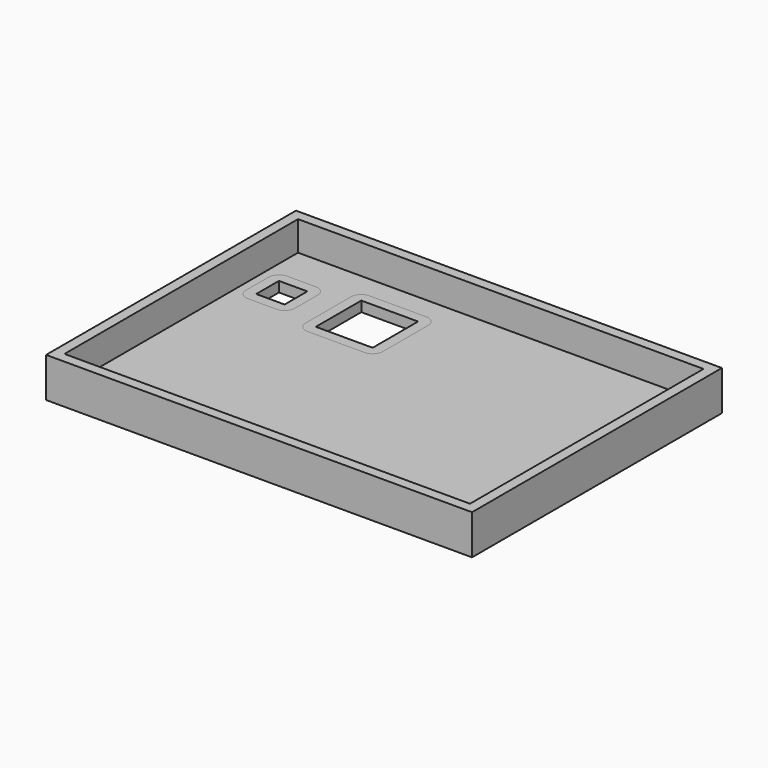
from build123d import *

# Parameters (mm, degrees)
F0_W     = 75
F0_H     = 55
F0_W_2   = 5
F0_H_2   = 5
F0_W_3   = 10
F0_H_3   = 10
F1_DEPTH = 7
F2_T     = -1.8
F3_W     = 35
F3_H     = 9.282675
F4_DEPTH = 25


with BuildPart() as f1:
    # F0 (on Top) → F1 (new body)
    with BuildSketch(Plane.XY):
        Rectangle(F0_W, F0_H)
        with Locations((-30, 15)):
            Rectangle(F0_W_2, F0_H_2, mode=Mode.SUBTRACT)
        with Locations((-15, 15)):
            Rectangle(F0_W_3, F0_H_3, mode=Mode.SUBTRACT)
    extrude(amount=F1_DEPTH)

    # F2
    f2_openings = [f1.faces().sort_by_distance(p)[0] for p in [
        (0.5625, -0.46875, 7),
    ]]
    offset(amount=F2_T, openings=f2_openings)

    # F3 (on Front) → F4 (cut)
    with BuildSketch(Plane.XZ):
        with Locations((-17.5, 6.441337)):
            Rectangle(F3_W, F3_H)
    extrude(amount=-F4_DEPTH, mode=Mode.SUBTRACT)


solid = f1.part
